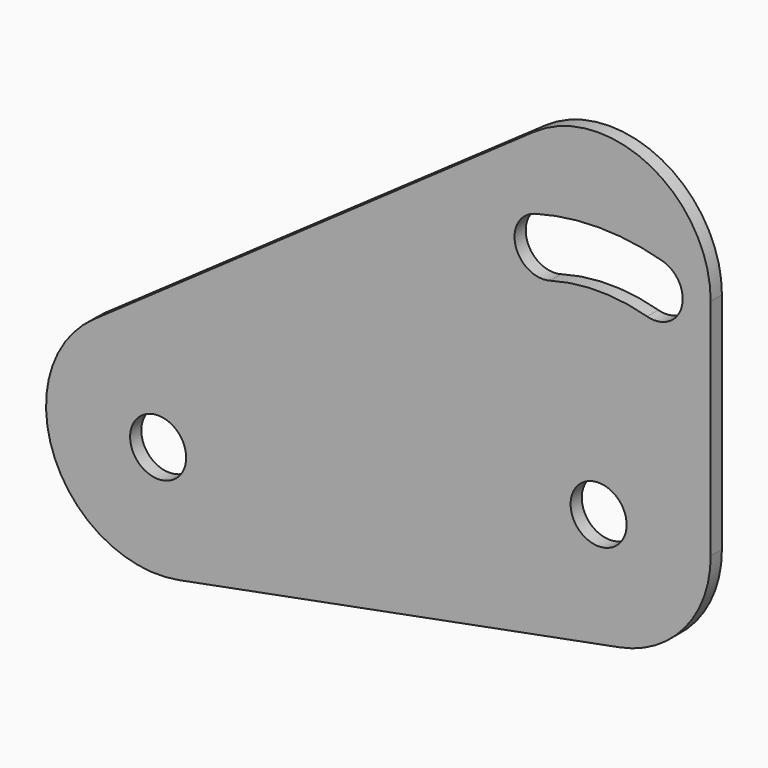
from build123d import *

# Parameters (mm, degrees)
F0_R     = 6.35
F1_DEPTH = 3.175


with BuildPart() as f1:
    # F0 (on Front) → F1 (new body)
    with BuildSketch(Plane.XZ):
        with BuildLine():
            ThreePointArc((0, 25.4), (-25.287129, -2.391879), (4.7625, -24.949521))
            ThreePointArc((4.7625, -24.949521), (19.572014, -16.189387), (25.4, 0))
            ThreePointArc((25.4, 0), (17.960512, 17.960512), (0, 25.4))
        make_face()
        Circle(F0_R, mode=Mode.SUBTRACT)
        with BuildLine():
            Line((-95.035584, -43.999521), (4.7625, -24.949521))
            ThreePointArc((4.7625, -24.949521), (-25.287129, -2.391879), (0, 25.4))
            ThreePointArc((0, 25.4), (-24.225165, 43.164465), (-14.564732, 71.609339))
            Line((-14.564732, 71.609339), (-114.362815, 1.759339))
            ThreePointArc((-114.362815, 1.759339), (-88.067444, 3.478917), (-74.398084, -19.05))
            ThreePointArc((-74.398084, -19.05), (-80.226069, -35.239387), (-95.035584, -43.999521))
        make_face()
        with BuildLine():
            ThreePointArc((0, 25.4), (17.960512, 17.960512), (25.4, 0))
            Line((25.4, 0), (25.4, 50.8))
            ThreePointArc((25.4, 50.8), (17.960512, 32.839488), (0, 25.4))
        make_face()
        with BuildLine():
            ThreePointArc((-14.564732, 71.609339), (-24.225165, 43.164465), (0, 25.4))
            ThreePointArc((0, 25.4), (17.960512, 32.839488), (25.4, 50.8))
            ThreePointArc((25.4, 50.8), (11.73064, 73.328917), (-14.564732, 71.609339))
        make_face()
        with BuildLine():
            ThreePointArc((-10.991184, 43.071134), (-18.815754, 47.478073), (-14.408816, 55.302643))
            ThreePointArc((-14.408816, 55.302643), (0, 57.277815), (14.408816, 55.302643))
            ThreePointArc((14.408816, 55.302643), (17.758334, 53.025607), (19.05, 49.186888))
            ThreePointArc((19.05, 49.186888), (16.538719, 44.128555), (10.991184, 43.071134))
            ThreePointArc((10.991184, 43.071134), (0, 44.577815), (-10.991184, 43.071134))
        make_face(mode=Mode.SUBTRACT)
        with BuildLine():
            ThreePointArc((-114.362815, 1.759339), (-123.196572, -28.932851), (-95.035584, -43.999521))
            ThreePointArc((-95.035584, -43.999521), (-80.226069, -35.239387), (-74.398084, -19.05))
            ThreePointArc((-74.398084, -19.05), (-88.067444, 3.478917), (-114.362815, 1.759339))
        make_face()
        with Locations((-99.798084, -19.05)):
            Circle(F0_R, mode=Mode.SUBTRACT)
    extrude(amount=F1_DEPTH)


solid = f1.part
